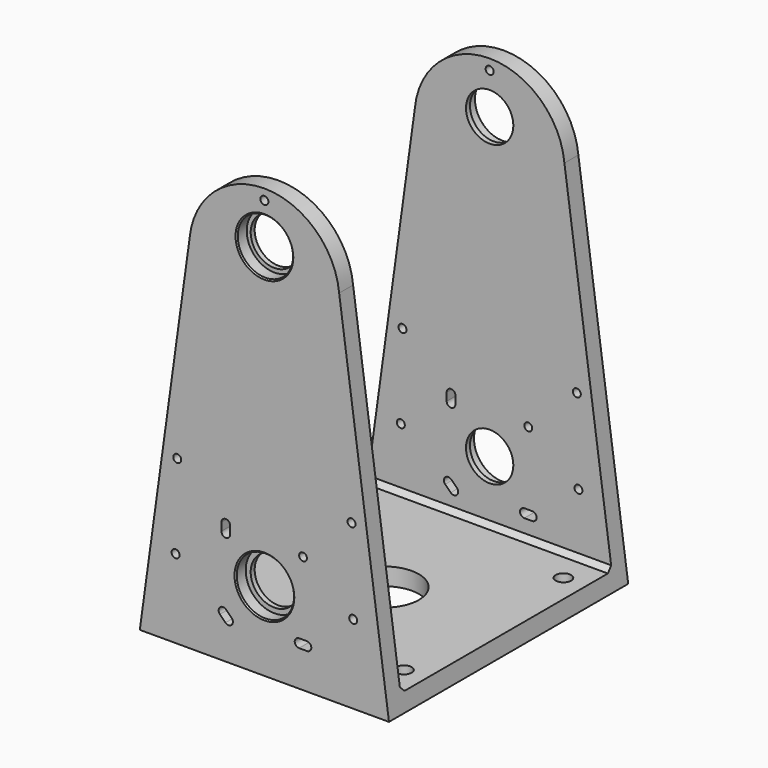
from build123d import *

# Parameters (mm, degrees)
SKETCH155_R             = 9.5
SKETCH155_R_2           = 1.6
PAD044_DEPTH            = 120
POCKET098_DEPTH         = 152.4
SKETCH152_R             = 3.1
SKETCH152_R_2           = 14
POCKET096_DEPTH         = 8
SKETCH156_R             = 1.575
POCKET099_DEPTH         = 120
SKETCH157_R             = 11.5
SKETCH157_R_2           = 11.1
POCKET100_DEPTH         = 5
SKETCH158_R             = 11.1
SKETCH158_R_2           = 11.5
POCKET101_DEPTH         = 5
CHAMFER026_SIZE         = 0.5
BODY034_PLACEMENT_ANGLE = 90


with BuildPart() as part:
    # Sketch155 → Pad044 (new body)
    with BuildSketch(Plane.XY):
        with BuildLine():
            Line((-50, 70), (50, 70))
            Line((50, 70), (30, 215))
            ThreePointArc((30, 215), (0, 242.2218283079), (-30, 215))
            Line((-50, 70), (-30, 215))
        make_face()
        with Locations((0, 221.5800627023)):
            Circle(SKETCH155_R, mode=Mode.SUBTRACT)
        with Locations((0, 101.5800627023)):
            Circle(SKETCH155_R, mode=Mode.SUBTRACT)
        with Locations((-35.6441292824, 101.5800627023)):
            Circle(SKETCH155_R_2, mode=Mode.SUBTRACT)
        with Locations((35.6441292824, 101.5800627023)):
            Circle(SKETCH155_R_2, mode=Mode.SUBTRACT)
        with Locations((-34.9725747282, 135.4488332209)):
            Circle(SKETCH155_R_2, mode=Mode.SUBTRACT)
        with Locations((34.9725747282, 135.4488332209)):
            Circle(SKETCH155_R_2, mode=Mode.SUBTRACT)
        with Locations((0, 238)):
            Circle(SKETCH155_R_2, mode=Mode.SUBTRACT)
    extrude(amount=PAD044_DEPTH)

    # Sketch154 → Pocket098 (cut, symmetric)
    with BuildSketch(Plane(origin=(0, 0, 120), x_dir=(0, 0, -1), z_dir=(1, 0, 0))):
        Polygon((7, 252.37), (113, 252.37), (113, 79), (111, 77), (9, 77), (7, 79), align=None)
    extrude(amount=POCKET098_DEPTH, both=True, mode=Mode.SUBTRACT)

    # Sketch152 (on Face1 of Pocket098) → Pocket096 (cut)
    with BuildSketch(Plane.XZ.offset(-70)):
        with Locations((-40, 100)):
            Circle(SKETCH152_R)
        with Locations((40, 100)):
            Circle(SKETCH152_R)
        with Locations((-40, 20)):
            Circle(SKETCH152_R)
        with Locations((40, 20)):
            Circle(SKETCH152_R)
        with Locations((0, 60)):
            Circle(SKETCH152_R_2)
    extrude(amount=-POCKET096_DEPTH, mode=Mode.SUBTRACT)

    # Sketch156 → Pocket099 (cut)
    with BuildSketch(Plane.XY.offset(120)):
        with Locations((15.5, 117.0800628443)):
            Circle(SKETCH156_R)
        with BuildLine():
            ThreePointArc((-13.75, 118.6550628443), (-15.5, 120.4050628443), (-17.25, 118.6550628443))
            Line((-17.25, 118.6550628443), (-17.25, 115.5050628443))
            ThreePointArc((-17.25, 115.5050628443), (-15.5, 113.7550628443), (-13.75, 115.5050628443))
            Line((-13.75, 118.6550628443), (-13.75, 115.5050628443))
        make_face()
        with BuildLine():
            ThreePointArc((13.925, 87.8300628443), (12.175, 86.0800628443), (13.925, 84.3300628443))
            Line((13.925, 84.3300628443), (17.075, 84.3300628443))
            ThreePointArc((17.075, 84.3300628443), (18.825, 86.0800628443), (17.075, 87.8300628443))
            Line((13.925, 87.8300628443), (17.075, 87.8300628443))
        make_face()
        with BuildLine():
            ThreePointArc((-15.3762563133, 88.4311928917), (-17.8511300474, 88.4311928917), (-17.8511300474, 85.9563191575))
            Line((-17.8511300474, 85.9563191575), (-15.6237436867, 83.7289327968))
            ThreePointArc((-15.6237436867, 83.7289327968), (-13.1488699526, 83.7289327968), (-13.1488699525, 86.203806531))
            Line((-15.3762563133, 88.4311928917), (-13.1488699525, 86.203806531))
        make_face()
    extrude(amount=-POCKET099_DEPTH, mode=Mode.SUBTRACT)

    # Sketch157 (on Face3 of Pocket099) → Pocket100 (cut)
    with BuildSketch(Plane(origin=(0, 0, 0), x_dir=(1, 0, 0), z_dir=(0, 0, -1))):
        with Locations((0, -101.5800627023)):
            Circle(SKETCH157_R)
        with Locations((0, -221.5800627023)):
            Circle(SKETCH157_R_2)
    extrude(amount=-POCKET100_DEPTH, mode=Mode.SUBTRACT)

    # Sketch158 (on Face4 of Pocket100) → Pocket101 (cut)
    with BuildSketch(Plane.XY.offset(120)):
        with Locations((0, 221.5800627023)):
            Circle(SKETCH158_R)
        with Locations((0, 101.5800627023)):
            Circle(SKETCH158_R_2)
    extrude(amount=-POCKET101_DEPTH, mode=Mode.SUBTRACT)

    # Chamfer026
    chamfer026_edges = [part.edges().sort_by_distance(p)[0] for p in [
        (-11.1, 221.580063, 120),
        (-11.5, 101.580063, 120),
        (-11.1, 221.580063, 0),
        (-11.5, 101.580063, 0),
    ]]
    chamfer(chamfer026_edges, length=CHAMFER026_SIZE)


with BuildPart() as part_1:
    # Body034 placement: moved
    add(part.part.moved(Location((0, 60, 75.6))).rotate(Axis((0, 60, 75.6), (1, 0, 0)), BODY034_PLACEMENT_ANGLE))


solid = part_1.part
